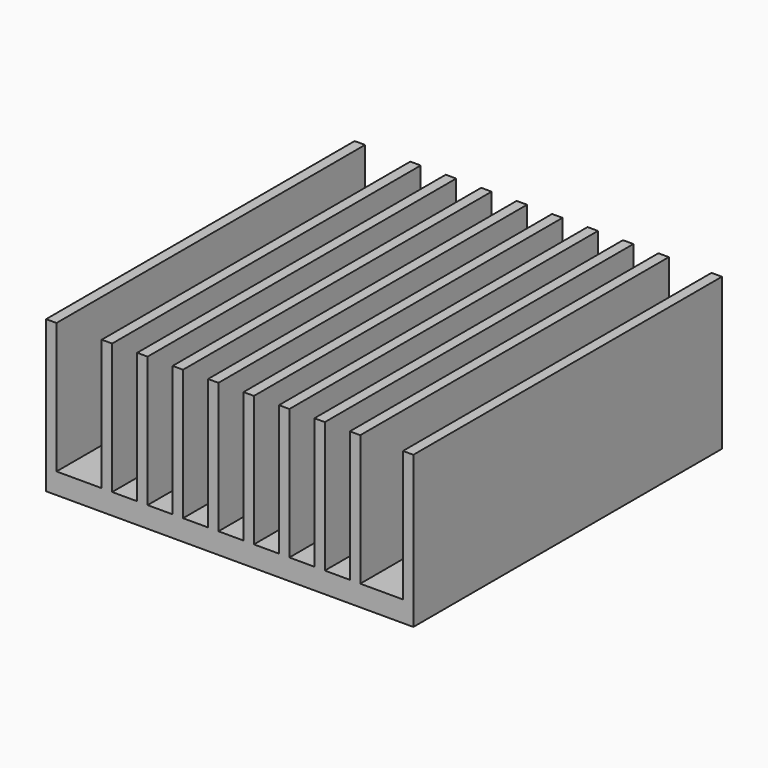
from build123d import *

# Parameters (mm, degrees)
F1_DEPTH = 61.087


with BuildPart() as f1:
    # F0 (on Front) → F1 (new body)
    with BuildSketch(Plane.XZ):
        Polygon((-14.4272, 37.735204), (-16.0782, 37.735204), (-16.0782, 13.732204), (42.0878, 13.732204), (42.0878, 37.735204), (40.4368, 37.735204), (40.4368, 17.034204), (33.6804, 17.034204), (33.6804, 37.735204), (32.0294, 37.735204), (32.0294, 17.034204), (28.067, 17.034204), (28.067, 37.735204), (26.416, 37.735204), (26.416, 17.034204), (22.4536, 17.034204), (22.4536, 37.735204), (20.8026, 37.735204), (20.8026, 17.034204), (16.8402, 17.034204), (16.8402, 37.735204), (15.1892, 37.735204), (15.1892, 17.034204), (11.2268, 17.034204), (11.2268, 37.735204), (9.5758, 37.735204), (9.5758, 17.034204), (5.6134, 17.034204), (5.6134, 37.735204), (3.9624, 37.735204), (3.9624, 17.034204), (0, 17.034204), (0, 37.735204), (-1.651, 37.735204), (-1.651, 17.034204), (-5.6134, 17.034204), (-5.6134, 37.735204), (-7.2644, 37.735204), (-7.2644, 17.034204), (-14.4272, 17.034204), align=None)
    extrude(amount=F1_DEPTH)


solid = f1.part
